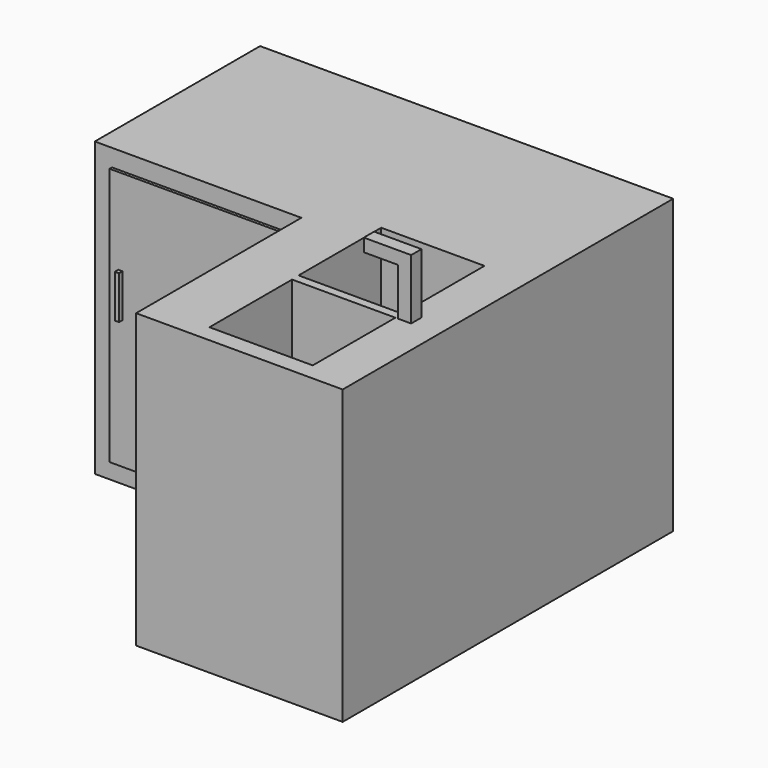
from build123d import *

# Parameters (mm, degrees)
F0_W      = 609.6
F0_H      = 863.6
F1_DEPTH  = 1219.2
F2_W      = 609.6
F2_H      = 863.6
F3_DEPTH  = 609.6
F4_W      = 508
F4_H      = 762
F5_DEPTH  = 6.35
F6_W      = 508
F6_H      = 762
F7_DEPTH  = 8.89
F8_W      = 12.7
F8_H      = 127
F9_DEPTH  = 12.7
F10_W     = 12.7
F10_H     = 127
F11_DEPTH = 12.7
F12_W     = 304.8
F12_H     = 304.8
F13_DEPTH = 203.2
F14_W     = 38.1
F14_H     = 38.1
F15_DEPTH = 177.8
F16_W     = 38.1
F16_H     = 38.1
F17_DEPTH = 101.6


with BuildPart() as f1:
    # F0 (on Front) → F1 (new body)
    with BuildSketch(Plane.XZ):
        with Locations((66.055058, 13.796019)):
            Rectangle(F0_W, F0_H)
    extrude(amount=F1_DEPTH)

    # F2 (on face) → F3 (join)
    with BuildSketch(Plane(origin=(-238.744942, 0, 0), x_dir=(0, -1, 0), z_dir=(-1, 0, 0))):
        with Locations((304.8, 13.796019)):
            Rectangle(F2_W, F2_H)
    extrude(amount=F3_DEPTH)

    # F4 (on face) → F5 (join)
    with BuildSketch(Plane(origin=(-238.744942, 0, 0), x_dir=(0, -1, 0), z_dir=(-1, 0, 0))):
        with Locations((914.4, 13.796019)):
            Rectangle(F4_W, F4_H)
    extrude(amount=F5_DEPTH)

    # F6 (on face) → F7 (join)
    with BuildSketch(Plane.XZ.offset(609.6)):
        with Locations((-543.544942, 13.796019)):
            Rectangle(F6_W, F6_H)
    extrude(amount=F7_DEPTH)

    # F8 (on face) → F9 (join)
    with BuildSketch(Plane.XZ.offset(618.49)):
        with Locations((-765.794942, 77.296019)):
            Rectangle(F8_W, F8_H)
    extrude(amount=F9_DEPTH)

    # F10 (on face) → F11 (join)
    with BuildSketch(Plane(origin=(-245.094942, 0, 0), x_dir=(0, -1, 0), z_dir=(-1, 0, 0))):
        with Locations((1136.65, 77.296019)):
            Rectangle(F10_W, F10_H)
    extrude(amount=F11_DEPTH)

    # F12 (on face) → F13 (cut)
    with BuildSketch(Plane.XY.offset(445.596019)):
        with Locations((88.263965, -685.8)):
            Rectangle(F12_W, F12_H)
        with Locations((89.468716, -1016)):
            Rectangle(F12_W, F12_H)
    extrude(amount=-F13_DEPTH, mode=Mode.SUBTRACT)

    # F14 (on face) → F15 (join)
    with BuildSketch(Plane.XY.offset(445.596019)):
        with Locations((269.315895, -844.55)):
            Rectangle(F14_W, F14_H)
    extrude(amount=F15_DEPTH)

    # F16 (on face) → F17 (join)
    with BuildSketch(Plane(origin=(250.265895, 0, 0), x_dir=(0, -1, 0), z_dir=(-1, 0, 0))):
        with Locations((844.55, 604.346019)):
            Rectangle(F16_W, F16_H)
    extrude(amount=F17_DEPTH)


solid = f1.part
